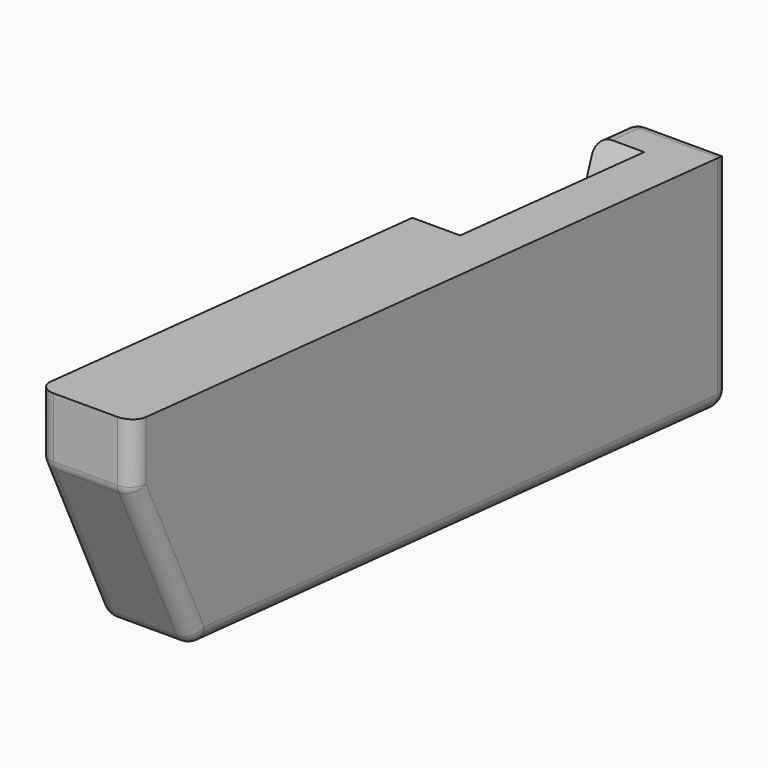
from build123d import *

# Parameters (mm, degrees)
F1_DEPTH = 38.1
F3_DEPTH = 19.05
F4_R     = 6.35


with BuildPart() as f1:
    # F0 (on Right) → F1 (new body)
    with BuildSketch(Plane.YZ):
        Polygon((0, -89.2395835576), (0, 0), (-297.3143076455, 26.011631423), (-297.3143076455, 0.611631423), (-266.2792969737, -65.9431637408), align=None)
    extrude(amount=F1_DEPTH)

    # F2 (on face) → F3 (cut)
    with BuildSketch(Plane(origin=(0, 0, 0), x_dir=(0, -1, 0), z_dir=(-1, 0, 0))):
        Polygon((110.7021358254, 9.6851819128), (19.016308353, 1.663711403), (50.4944921991, -84.8218879197), (142.1803196716, -76.8004174098), align=None)
    extrude(amount=-F3_DEPTH, mode=Mode.SUBTRACT)

    # F4
    f4_edges = [f1.edges().sort_by_distance(p)[0] for p in [
        (0, -297.314308, 13.311631),
        (38.1, -297.314308, 13.311631),
        (38.1, -281.796802, -32.665766),
        (0, -281.796802, -32.665766),
        (19.05, -266.279297, -65.943164),
        (38.1, -133.139648, -77.591374),
        (38.1, 0, -44.619792),
        (19.05, 0, 0),
        (0, -25.247246, -87.030736),
        (0, -204.229808, -71.371791),
        (19.05, 0, -89.239584),
        (0, 0, -44.619792),
        (0, -9.508154, 0.831856),
        (19.05, -297.314308, 0.611631),
    ]]
    fillet(f4_edges, radius=F4_R)


solid = f1.part
